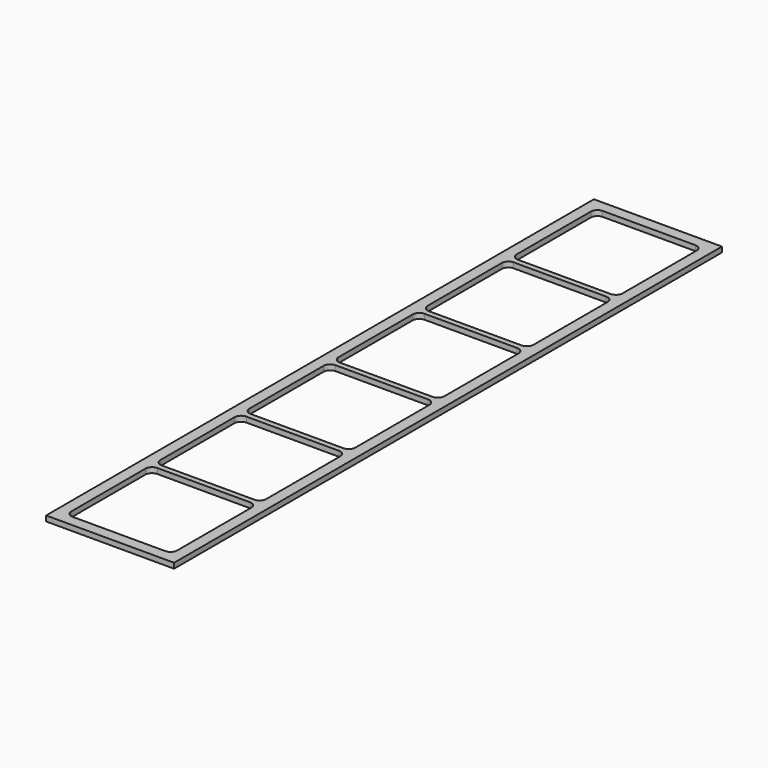
from build123d import *

# Parameters (mm, degrees)
SKETCH_W            = 19.36
SKETCH_H            = 103.56
PAD_DEPTH           = 0.8
POCKET_DEPTH        = 5
LINEARPATTERN_COUNT = 6
LINEARPATTERN_PITCH = 16.84


with BuildPart() as part:
    # Sketch → Pad (new body)
    with BuildSketch(Plane.XY):
        with Locations((-9.68, 51.78)):
            Rectangle(SKETCH_W, SKETCH_H)
    extrude(amount=PAD_DEPTH)

    # Sketch001 (on Face6 of Pad) → Pocket (cut)
    with BuildSketch(Plane.XY.offset(0.8)):
        with BuildLine():
            Line((-17.68, 16.68), (-17.68, 2.68))
            ThreePointArc((-17.68, 2.68), (-17.387107, 1.972893), (-16.68, 1.68))
            Line((-16.68, 1.68), (-2.68, 1.68))
            ThreePointArc((-2.68, 1.68), (-1.972893, 1.972893), (-1.68, 2.68))
            Line((-1.68, 2.68), (-1.68, 16.68))
            ThreePointArc((-1.68, 16.68), (-1.972893, 17.387107), (-2.68, 17.68))
            Line((-2.68, 17.68), (-16.68, 17.68))
            ThreePointArc((-16.68, 17.68), (-17.387107, 17.387107), (-17.68, 16.68))
        make_face()
    pocket = extrude(amount=-POCKET_DEPTH, mode=Mode.SUBTRACT)

    # LinearPattern: Pocket ×6
    with Locations(*[(0, i * LINEARPATTERN_PITCH, 0) for i in range(1, LINEARPATTERN_COUNT)]):
        add(pocket, mode=Mode.SUBTRACT)


solid = part.part
